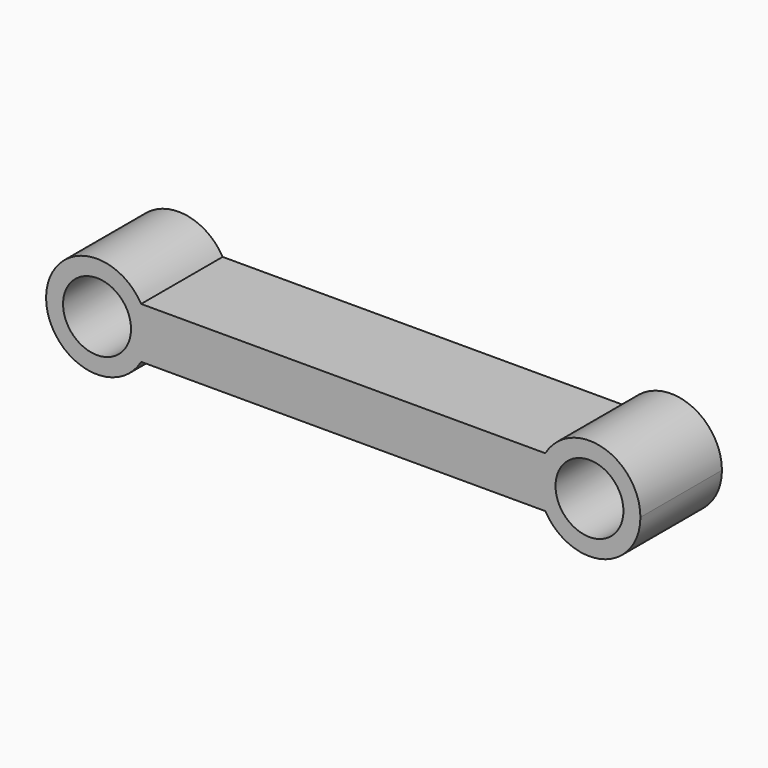
from build123d import *

# Parameters (mm, degrees)
F0_R     = 12.7
F0_W     = 1.2455678842
F0_H     = 19.05
F1_DEPTH = 38.1


with BuildPart() as f1:
    # F0 (on Front) → F1 (new body)
    with BuildSketch(Plane.XZ):
        with BuildLine():
            ThreePointArc((-45.300738686, -9.525), (-43.3976356373, -4.9305028092), (-42.7485226281, 0))
            ThreePointArc((-42.7485226281, 0), (-43.3976356373, 4.9305028092), (-45.300738686, 9.525))
            Line((-45.300738686, 9.525), (-45.300738686, -9.525))
        make_face()
        with BuildLine():
            ThreePointArc((-45.300738686, 9.525), (-43.3976356373, 4.9305028092), (-42.7485226281, 0))
            ThreePointArc((-42.7485226281, 0), (-43.3976356373, -4.9305028092), (-45.300738686, -9.525))
            Line((-45.300738686, -9.525), (105.8536934298, -9.525))
            ThreePointArc((105.8536934298, -9.525), (103.3014773719, 0), (105.8536934298, 9.525))
            Line((105.8536934298, 9.525), (-45.300738686, 9.525))
        make_face()
        with BuildLine():
            Line((-46.5463065702, 9.525), (-45.300738686, 9.525))
            ThreePointArc((-45.300738686, 9.525), (-80.8485226281, 0), (-45.300738686, -9.525))
            Line((-45.300738686, -9.525), (-46.5463065702, -9.525))
            Line((-46.5463065702, -9.525), (-46.5463065702, 9.525))
        make_face()
        with Locations((-61.7985226281, 0)):
            Circle(F0_R, mode=Mode.SUBTRACT)
        with Locations((-45.9235226281, 0)):
            Rectangle(F0_W, F0_H)
        with BuildLine():
            ThreePointArc((141.4014773719, 0), (127.2819801811, 18.4008869908), (105.8536934298, 9.525))
            Line((105.8536934298, 9.525), (107.099261314, 9.525))
            Line((107.099261314, 9.525), (107.099261314, -9.525))
            Line((107.099261314, -9.525), (105.8536934298, -9.525))
            ThreePointArc((105.8536934298, -9.525), (127.2819801811, -18.4008869908), (141.4014773719, 0))
        make_face()
        with Locations((122.3514773719, 0)):
            Circle(F0_R, mode=Mode.SUBTRACT)
        with BuildLine():
            Line((105.8536934298, -9.525), (105.8536934298, 9.525))
            ThreePointArc((105.8536934298, 9.525), (103.3014773719, 0), (105.8536934298, -9.525))
        make_face()
        with Locations((106.4764773719, 0)):
            Rectangle(F0_W, F0_H)
    extrude(amount=F1_DEPTH)


solid = f1.part
